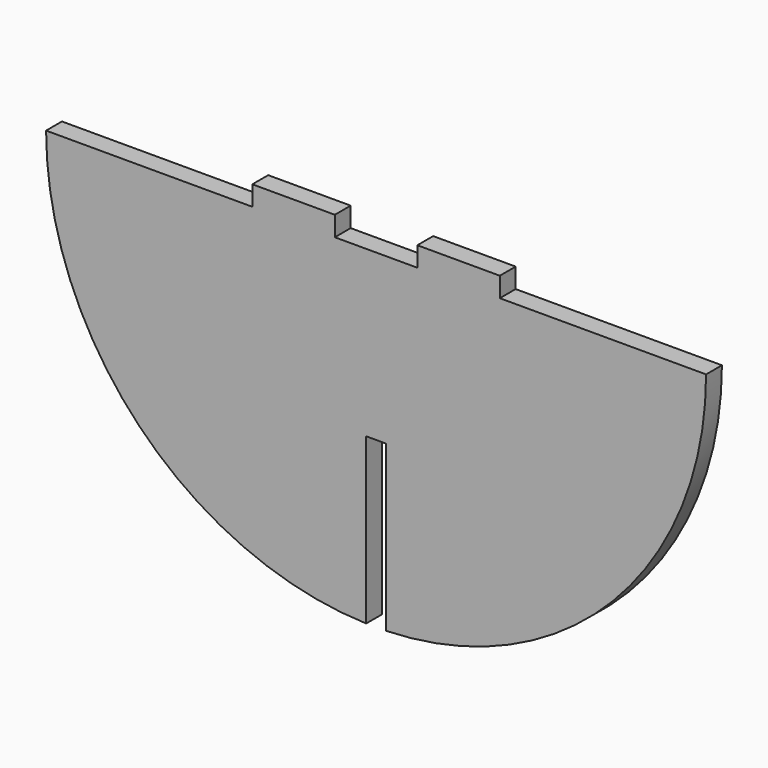
from build123d import *

# Parameters (mm, degrees)
F1_DEPTH = 3.048


with BuildPart() as f1:
    # F0 (on Front) → F1 (new body)
    with BuildSketch(Plane.XZ):
        with BuildLine():
            Line((-19.05, 50.8), (-50.8, 50.8))
            ThreePointArc((-50.8, 50.8), (-36.455858, 15.421894), (-1.524, 0.022865))
            Line((-1.524, 0.022865), (-1.524, 25.4))
            Line((-1.524, 25.4), (1.524, 25.4))
            Line((1.524, 25.4), (1.524, 0.022865))
            ThreePointArc((1.524, 0.022865), (36.455858, 15.421894), (50.8, 50.8))
            Line((50.8, 50.8), (19.05, 50.8))
            Line((19.05, 50.8), (19.05, 53.848))
            Line((19.05, 53.848), (6.35, 53.848))
            Line((6.35, 53.848), (6.35, 50.8))
            Line((6.35, 50.8), (-6.35, 50.8))
            Line((-6.35, 50.8), (-6.35, 53.848))
            Line((-6.35, 53.848), (-19.05, 53.848))
            Line((-19.05, 53.848), (-19.05, 50.8))
        make_face()
    extrude(amount=F1_DEPTH)


solid = f1.part
